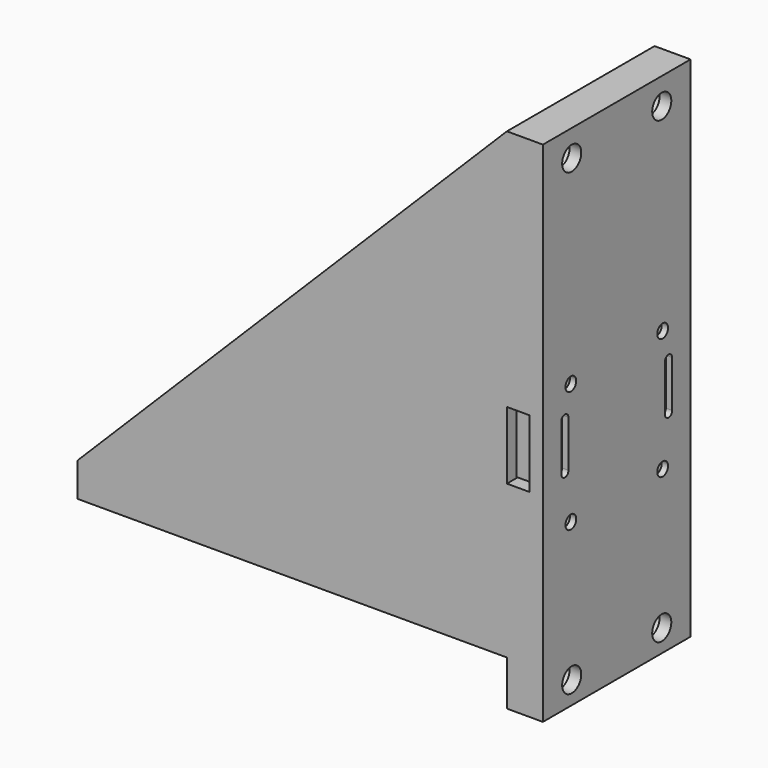
from build123d import *

# Parameters (mm, degrees)
PAD001_DEPTH         = 20.5
POCKET_DEPTH         = 17.8
SKETCH020_W          = 89.65
SKETCH020_H          = 5
POCKET002_DEPTH      = 12.8
HOLE006_D            = 5.3
HOLE006_CBORE_D      = 8.9
HOLE006_CBORE_DEPTH  = 5.4
SKETCH032_W          = 35
SKETCH032_H          = 37
POCKET010_DEPTH      = 102.001
SKETCH033_W          = 5
SKETCH033_H          = 15
POCKET011_DEPTH      = 20.501
POCKET011_DEPTH_BACK = 20.501
SKETCH034_R          = 1.5
POCKET012_DEPTH      = 103.501


with BuildPart() as part:
    # Sketch018 → Pad001 (new body, symmetric)
    with BuildSketch(Plane.XZ):
        Polygon((71.9, 102.9), (-23.5, 7.5), (-23.5, 0), (71.9, 0), (71.9, -10), (79.9, -10), (79.9, 102.9), align=None)
    extrude(amount=PAD001_DEPTH, both=True)

    # Sketch019 → Pocket (cut, symmetric)
    with BuildSketch(Plane.XZ):
        Polygon((-17.5, 4.5), (71.9, 4.5), (71.9, 104.5), (-27.5, 104.5), (-27.5, 14.5), align=None)
    extrude(amount=POCKET_DEPTH, both=True, mode=Mode.SUBTRACT)

    # Sketch020 → Pocket002 (cut, symmetric)
    with BuildSketch(Plane.XZ):
        with Locations((27.075, 2.5)):
            Rectangle(SKETCH020_W, SKETCH020_H)
    extrude(amount=POCKET002_DEPTH, both=True, mode=Mode.SUBTRACT)

    # Hole006 (through all)
    with Locations(Plane(origin=(71.9, 0, 0), x_dir=(0, 1, 0), z_dir=(-1, 0, 0))):
        with Locations((-12.5, -97), (12.5, -97), (-12.5, 5), (12.5, 5)):
            CounterBoreHole(HOLE006_D / 2, HOLE006_CBORE_D / 2, HOLE006_CBORE_DEPTH)

    # Sketch032 → Pocket010 (cut, through all)
    with BuildSketch(Plane.YZ.offset(78.5)):
        with Locations((0, 39.3)):
            Rectangle(SKETCH032_W, SKETCH032_H)
    extrude(amount=-POCKET010_DEPTH, mode=Mode.SUBTRACT)

    # Sketch033 → Pocket011 (cut, two sides)
    with BuildSketch(Plane.XZ) as pocket011_sk:
        with Locations((74.4, 41.5)):
            Rectangle(SKETCH033_W, SKETCH033_H)
    extrude(amount=-POCKET011_DEPTH, mode=Mode.SUBTRACT)
    extrude(pocket011_sk.sketch, amount=POCKET011_DEPTH_BACK, mode=Mode.SUBTRACT)

    # Sketch034 → Pocket012 (cut, through all)
    with BuildSketch(Plane.YZ.offset(80)):
        with Locations((-12.75, 52.94381)):
            Circle(SKETCH034_R)
        with Locations((12.75, 52.94381)):
            Circle(SKETCH034_R)
        with Locations((12.75, 25.94381)):
            Circle(SKETCH034_R)
        with Locations((-12.75, 25.94381)):
            Circle(SKETCH034_R)
        with BuildLine():
            ThreePointArc((-13.401099, 46.669643), (-14.401099, 47.669643), (-15.401099, 46.669643))
            Line((-15.401099, 46.669643), (-15.401099, 36.32))
            ThreePointArc((-15.401099, 36.32), (-14.401099, 35.32), (-13.401099, 36.32))
            Line((-13.401099, 46.669643), (-13.401099, 36.32))
        make_face()
        with BuildLine():
            ThreePointArc((15.401099, 46.669643), (14.401099, 47.669643), (13.401099, 46.669643))
            Line((13.401099, 46.669643), (13.401099, 36.32))
            ThreePointArc((13.401099, 36.32), (14.401099, 35.32), (15.401099, 36.32))
            Line((15.401099, 46.669643), (15.401099, 36.32))
        make_face()
    extrude(amount=-POCKET012_DEPTH, mode=Mode.SUBTRACT)


solid = part.part
